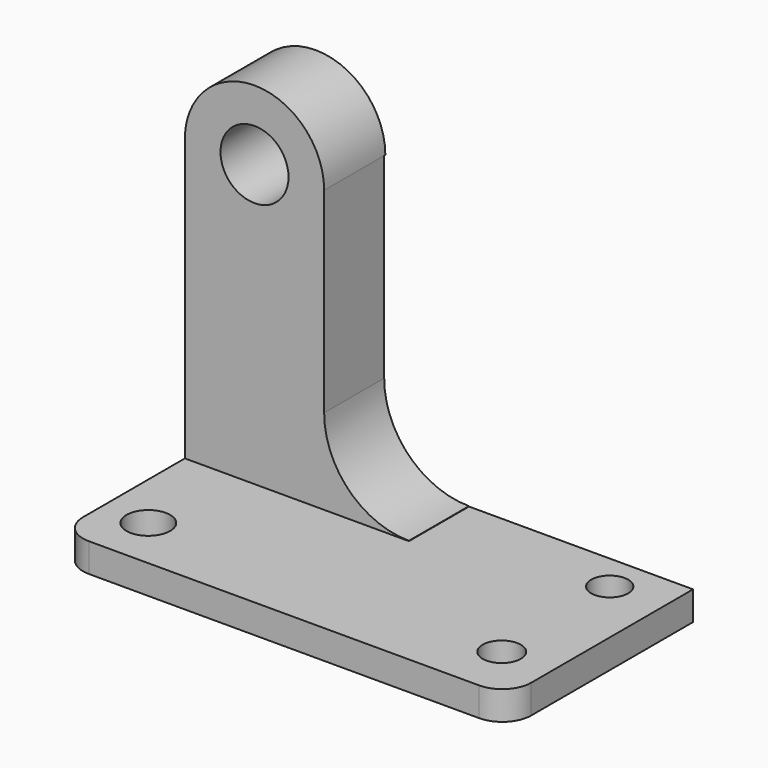
from build123d import *

# Parameters (mm, degrees)
F0_W      = 78.894876
F0_H      = 40.701952
F1_DEPTH  = 5.08
F2_R      = 5.08
F3_R      = 3.262526
F3_R_2    = 3.362851
F3_R_3    = 3.841691
F4_DEPTH  = 25.4
F5_W      = 39.447438
F5_H      = 13.209066
F6_DEPTH  = 49.53
F8_DEPTH  = 25.4
F10_DEPTH = 13.462
F11_R     = 5.989358
F12_DEPTH = 25.4


with BuildPart() as f1:
    # F0 (on Top) → F1 (new body)
    with BuildSketch(Plane.XY):
        Rectangle(F0_W, F0_H)
    extrude(amount=F1_DEPTH)

    # F2
    f2_edges = [f1.edges().sort_by_distance(p)[0] for p in [
        (-39.447438, -20.350976, 2.54),
        (39.447438, -20.350976, 2.54),
    ]]
    fillet(f2_edges, radius=F2_R)

    # F3 (on face) → F4 (cut)
    with BuildSketch(Plane.XY.offset(5.08)):
        with Locations((29.968904, 13.844252)):
            Circle(F3_R)
        with Locations((30.526463, -10.599568)):
            Circle(F3_R_2)
        with Locations((-31.362806, -10.993823)):
            Circle(F3_R_3)
    extrude(amount=-F4_DEPTH, mode=Mode.SUBTRACT)

    # F5 (on face) → F6 (join)
    with BuildSketch(Plane.XY.offset(5.08)):
        with Locations((-19.723719, 13.746443)):
            Rectangle(F5_W, F5_H)
    extrude(amount=F6_DEPTH)

    # F7 (on face) → F8 (cut)
    with BuildSketch(Plane.XZ.offset(-7.14191)):
        with BuildLine():
            Line((0, 20.121116), (0, 34.994766))
            ThreePointArc((0, 34.994766), (-10.534541, 30.641328), (-14.92249, 20.121116))
            Line((-14.92249, 20.121116), (0, 20.121116))
        make_face()
        with BuildLine():
            ThreePointArc((-14.92249, 20.121116), (-10.534541, 30.641328), (0, 34.994766))
            Line((0, 34.994766), (0, 54.61))
            Line((0, 54.61), (-14.92249, 54.61))
            Line((-14.92249, 54.61), (-14.92249, 20.121116))
        make_face()
        with BuildLine():
            ThreePointArc((-14.92249, 20.121116), (-10.569132, 9.537655), (0, 5.149625))
            Line((0, 5.149625), (0, 20.121116))
            Line((0, 20.121116), (-14.92249, 20.121116))
        make_face()
        with BuildLine():
            Line((0, 20.121116), (0, 34.994766))
            ThreePointArc((0, 34.994766), (-10.534541, 30.641328), (-14.92249, 20.121116))
            Line((-14.92249, 20.121116), (0, 20.121116))
        make_face()
    extrude(amount=-F8_DEPTH, mode=Mode.SUBTRACT)

    # F9 (on face) → F10 (join)
    with BuildSketch(Plane.XZ.offset(-7.14191)):
        with BuildLine():
            Line((-39.447438, 54.61), (-14.92249, 54.61))
            ThreePointArc((-14.92249, 54.61), (-27.184964, 66.872474), (-39.447438, 54.61))
        make_face()
    extrude(amount=-F10_DEPTH)

    # F11 (on face) → F12 (cut)
    with BuildSketch(Plane.XZ.offset(-7.14191)):
        with Locations((-27.184964, 54.61)):
            Circle(F11_R)
    extrude(amount=-F12_DEPTH, mode=Mode.SUBTRACT)


solid = f1.part
